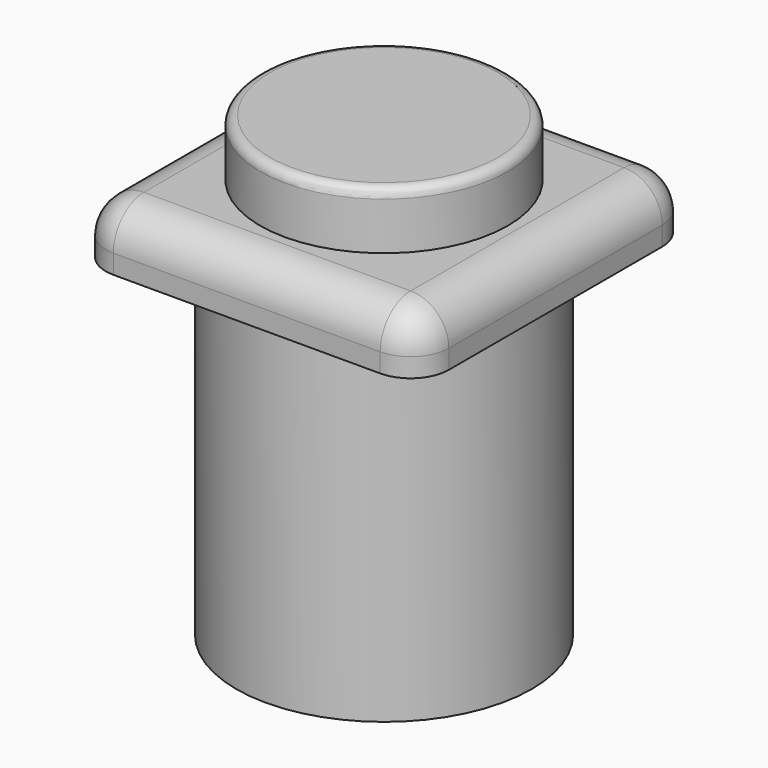
from build123d import *

# Parameters (mm, degrees)
F0_W     = 18
F0_H     = 18
F1_DEPTH = 3
F2_R     = 6.5
F3_DEPTH = 3
F4_R     = 2
F5_R     = 0.5
F6_R     = 7.75
F7_DEPTH = 18


with BuildPart() as f1:
    # F0 (on Top) → F1 (new body)
    with BuildSketch(Plane.XY):
        Rectangle(F0_W, F0_H)
    extrude(amount=F1_DEPTH)

    # F2 (on face) → F3 (join)
    with BuildSketch(Plane.XY.offset(3)):
        Circle(F2_R)
    extrude(amount=F3_DEPTH)

    # F4
    f4_edges = [f1.edges().sort_by_distance(p)[0] for p in [
        (9, 0, 3),
        (0, 9, 3),
        (-9, 0, 3),
        (0, -9, 3),
        (-9, -9, 1.5),
        (-9, 9, 1.5),
        (9, -9, 1.5),
        (9, 9, 1.5),
    ]]
    fillet(f4_edges, radius=F4_R)

    # F5
    f5_edges = [f1.edges().sort_by_distance(p)[0] for p in [
        (-6.5, 0, 6),
    ]]
    fillet(f5_edges, radius=F5_R)

    # F6 (on face) → F7 (join)
    with BuildSketch(Plane(origin=(0, 0, 0), x_dir=(1, 0, 0), z_dir=(0, 0, -1))):
        Circle(F6_R)
    extrude(amount=F7_DEPTH)


solid = f1.part
